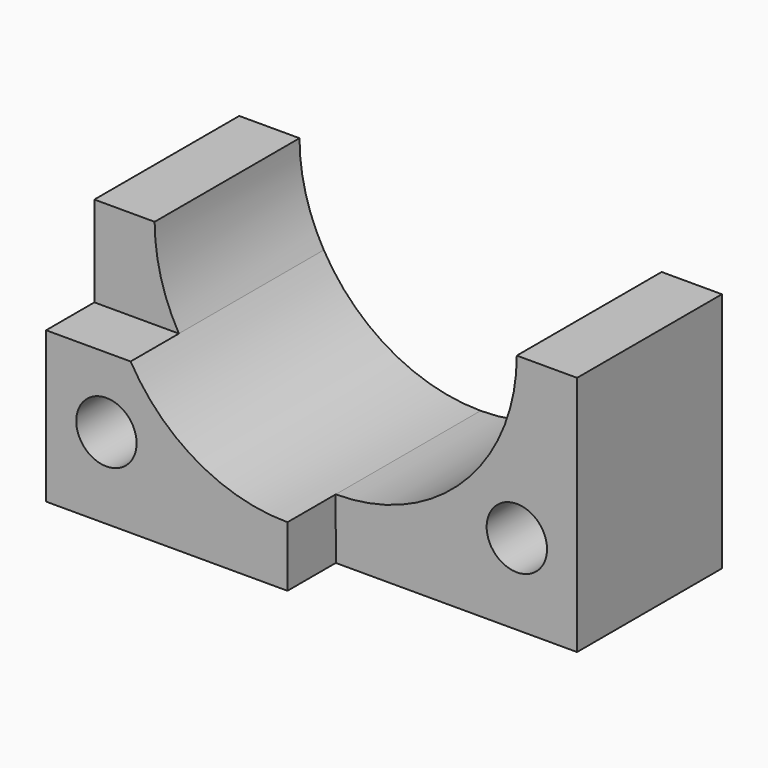
from build123d import *

# Parameters (mm, degrees)
F0_R     = 5
F1_DEPTH = 25
F2_DEPTH = 30
F3_DEPTH = 40


with BuildPart() as f1:
    # F0 (on Front) → F1 (new body)
    with BuildSketch(Plane.XZ):
        with BuildLine():
            Line((-0.01101, -10), (0, -20))
            Line((0, -20), (39.977979, -20))
            Line((39.977979, -20), (39.977979, 20))
            Line((39.977979, 20), (29.98899, 20))
            ThreePointArc((29.98899, 20), (21.202193, -1.213203), (-0.01101, -10))
        make_face()
        with Locations((30, -6.616864)):
            Circle(F0_R, mode=Mode.SUBTRACT)
    extrude(amount=F1_DEPTH)

    # F0 (on Front) → F2 (join)
    with BuildSketch(Plane.XZ):
        with BuildLine():
            Line((-0.01101, -10), (0, -20))
            Line((0, -20), (39.977979, -20))
            Line((39.977979, -20), (39.977979, 20))
            Line((39.977979, 20), (29.98899, 20))
            ThreePointArc((29.98899, 20), (21.202193, -1.213203), (-0.01101, -10))
        make_face()
        with Locations((30, -6.616864)):
            Circle(F0_R, mode=Mode.SUBTRACT)
        with BuildLine():
            Line((-30.01101, 20), (-40, 20))
            Line((-40, 20), (-40, 5))
            Line((-40, 5), (-25.991772, 5))
            ThreePointArc((-25.991772, 5), (-28.988785, 12.235429), (-30.01101, 20))
        make_face()
    extrude(amount=F2_DEPTH)


with BuildPart() as f3:
    # F0 (on Front) → F3 (new body)
    with BuildSketch(Plane.XZ):
        with BuildLine():
            Line((-25.991772, 5), (-40, 5))
            Line((-40, 5), (-40, -20))
            Line((-40, -20), (0, -20))
            Line((0, -20), (-0.01101, -10))
            ThreePointArc((-0.01101, -10), (-15.01101, -5.980762), (-25.991772, 5))
        make_face()
        with Locations((-30, -6.616864)):
            Circle(F0_R, mode=Mode.SUBTRACT)
    extrude(amount=F3_DEPTH)


solid = Compound([f1.part, f3.part])
